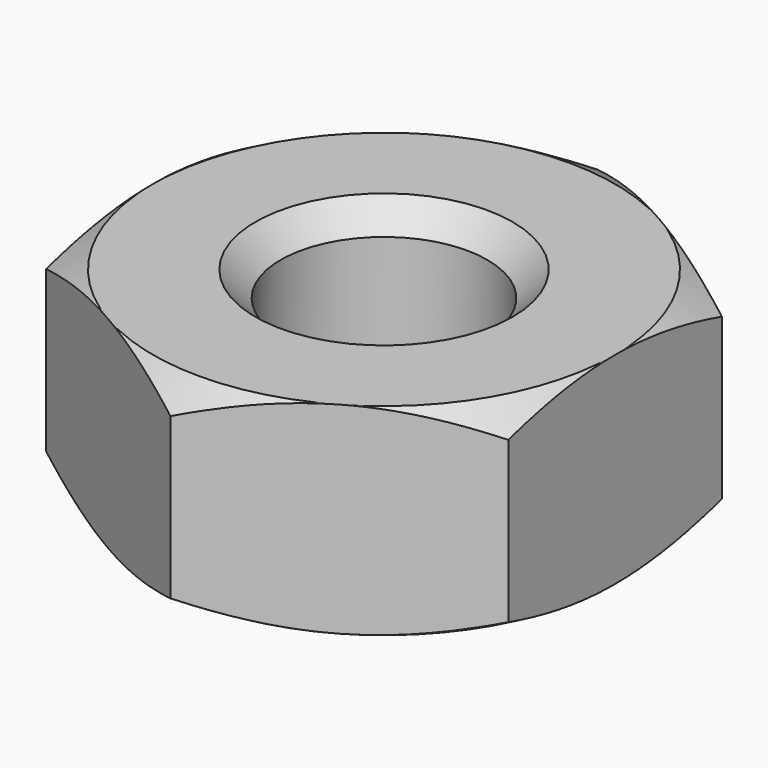
from build123d import *

# Parameters (mm, degrees)
F0_R     = 1.23
F1_DEPTH = 2.4
F4_SIZE  = 0.3


with BuildPart() as f1:
    # F0 (on Top) → F1 (new body)
    with BuildSketch(Plane.XY):
        Polygon((2.75, -1.587713), (2.75, 1.587713), (0, 3.175426), (-2.75, 1.587713), (-2.75, -1.587713), (0, -3.175426), align=None)
        Circle(F0_R, mode=Mode.SUBTRACT)
    extrude(amount=F1_DEPTH)

    # F2 (on Front) → F3 (revolve, cut)
    with BuildSketch(Plane.XZ):
        Polygon((4.828461, 0), (4.828461, 1.2), (2.75, 0), align=None)
        Polygon((4.828461, 2.4), (2.75, 2.4), (4.828461, 1.2), align=None)
    revolve(axis=Axis((0, 0, 1.176549), (0, 0, 1)), mode=Mode.SUBTRACT)

    # F4
    f4_edges = [f1.edges().sort_by_distance(p)[0] for p in [
        (1.23, 0, 1.2),
        (-1.23, 0, 0),
        (-1.23, 0, 2.4),
    ]]
    chamfer(f4_edges, length=F4_SIZE)


solid = f1.part
